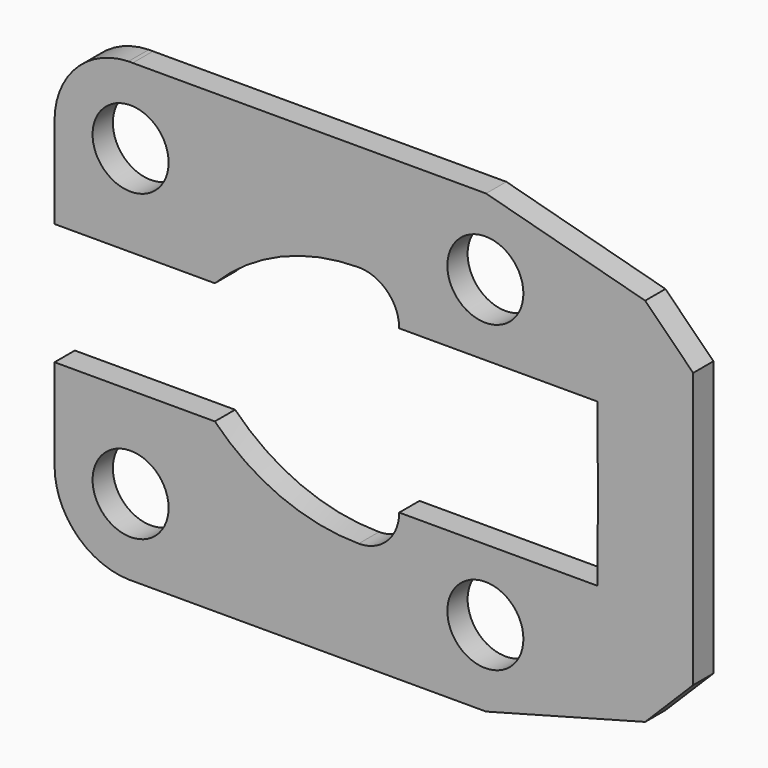
from build123d import *

# Parameters (mm, degrees)
F0_R     = 9.525
F1_DEPTH = 6.35


with BuildPart() as f1:
    # F0 (on Front) → F1 (new body)
    with BuildSketch(Plane.XZ):
        with BuildLine():
            ThreePointArc((-44.203452, 57.142624), (-57.329882, 51.381651), (-62.723372, 38.1))
            Line((-62.723372, 38.1), (-62.723372, 15.24))
            Line((-62.723372, 15.24), (-22.559377, 15.24))
            ThreePointArc((-22.559377, 15.24), (-6.067452, 26.468514), (13.476628, 30.48))
            ThreePointArc((13.476628, 30.48), (20.660833, 27.504205), (23.636628, 20.32))
            Line((23.636628, 20.32), (73.318773, 20.32))
            Line((73.318773, 20.32), (73.420628, 0))
            Line((73.420628, 0), (73.318773, -20.32))
            Line((73.318773, -20.32), (23.636628, -20.32))
            ThreePointArc((23.636628, -20.32), (20.660833, -27.504205), (13.476628, -30.48))
            ThreePointArc((13.476628, -30.48), (-6.067452, -26.468514), (-22.559377, -15.24))
            Line((-22.559377, -15.24), (-62.723372, -15.24))
            Line((-62.723372, -15.24), (-62.723372, -38.1))
            ThreePointArc((-62.723372, -38.1), (-57.329882, -51.381651), (-44.203452, -57.142624))
            Line((-44.203452, -57.142624), (-43.143292, -57.142624))
            Line((-43.143292, -57.142624), (45.408478, -57.142624))
            Line((45.408478, -57.142624), (85.268794, -46.462084))
            Line((85.268794, -46.462084), (97.296628, -34.43425))
            Line((97.296628, -34.43425), (97.296628, 0))
            Line((97.296628, 0), (97.296628, 34.43425))
            Line((97.296628, 34.43425), (85.268794, 46.462084))
            Line((85.268794, 46.462084), (45.408478, 57.142624))
            Line((45.408478, 57.142624), (-43.143292, 57.142624))
            Line((-43.143292, 57.142624), (-44.203452, 57.142624))
        make_face()
        with Locations((-43.673372, -38.1)):
            Circle(F0_R, mode=Mode.SUBTRACT)
        with Locations((45.226628, -38.1)):
            Circle(F0_R, mode=Mode.SUBTRACT)
        with Locations((-43.673372, 38.1)):
            Circle(F0_R, mode=Mode.SUBTRACT)
        with Locations((45.226628, 38.1)):
            Circle(F0_R, mode=Mode.SUBTRACT)
        with BuildLine():
            ThreePointArc((-43.143292, 57.142624), (-43.673372, 57.15), (-44.203452, 57.142624))
            Line((-44.203452, 57.142624), (-43.143292, 57.142624))
        make_face()
        with BuildLine():
            ThreePointArc((-44.203452, -57.142624), (-43.673372, -57.15), (-43.143292, -57.142624))
            Line((-43.143292, -57.142624), (-44.203452, -57.142624))
        make_face()
    extrude(amount=F1_DEPTH)


solid = f1.part
